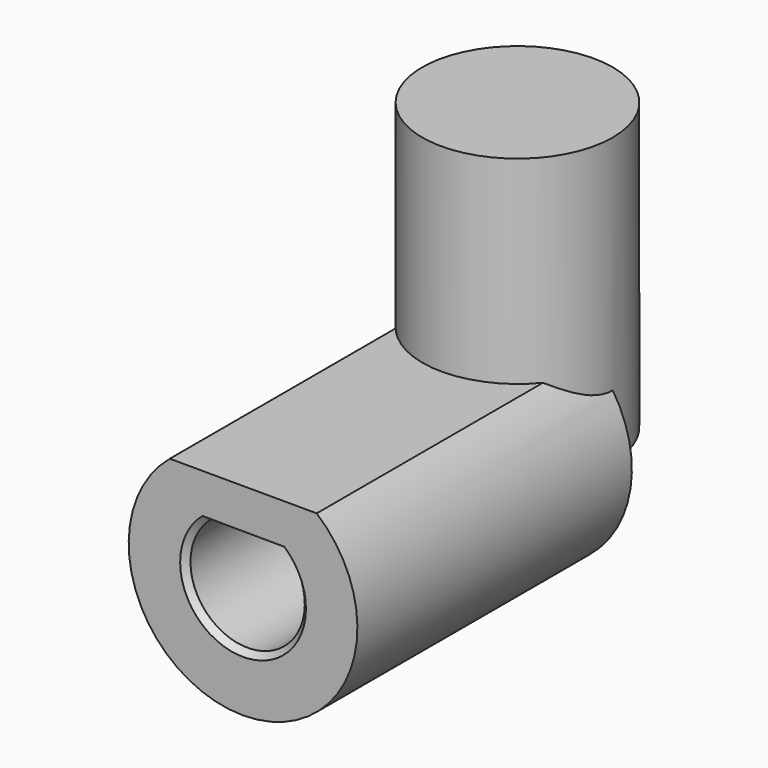
from build123d import *

# Parameters (mm, degrees)
F2_DEPTH = 25.4
F3_DEPTH = 127
F4_SIZE  = 2.54
F0_R     = 42.2975618679
F5_DEPTH = 127


with BuildPart() as f2:
    # F1 (on Front) → F2 (new body)
    with BuildSketch(Plane.XZ):
        with BuildLine():
            ThreePointArc((-32.5502825036, 39.0015270077), (-0.1096585285, -50.7998816436), (32.7183586862, 38.8606356726))
            Line((32.7183586862, 38.8606356726), (-32.5502825036, 39.0015270077))
        make_face()
        with BuildLine():
            Line((-13.8090135631, 21.3183288373), (14.0783311513, 21.141442524))
            ThreePointArc((14.0783311513, 21.141442524), (-0.1611061228, -25.3994890661), (-13.8090135631, 21.3183288373))
        make_face(mode=Mode.SUBTRACT)
    extrude(amount=F2_DEPTH)

    # F3 (add): a face of the model
    f3_faces = [f2.faces().sort_by_distance(p)[0] for p in [
        (-0.1067314616, -25.4, -49.443902714),
    ]]
    extrude(f3_faces, amount=F3_DEPTH)

    # F4
    f4_edges = [f2.edges().sort_by_distance(p)[0] for p in [
        (-0.161106, -152.4, -25.399489),
    ]]
    chamfer(f4_edges, length=F4_SIZE)

    # F0 (on Top) → F5 (join)
    with BuildSketch(Plane.XY):
        Circle(F0_R)
    extrude(amount=F5_DEPTH)


solid = f2.part
